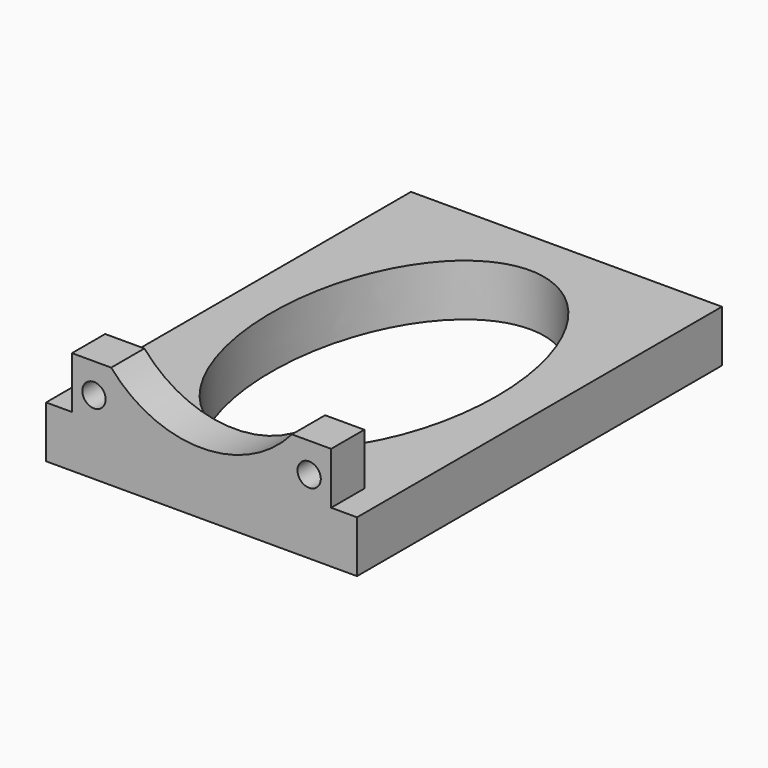
from build123d import *

# Parameters (mm, degrees)
F1_DEPTH = 88
F0_R     = 2.25
F2_DEPTH = 8
F4_DEPTH = 10.001


with BuildPart() as f1:
    # F0 (on Front) → F1 (new body)
    with BuildSketch(Plane.XZ):
        Polygon((-30, -5), (30, -5), (30, 5), (25, 5), (-25, 5), (-30, 5), align=None)
    extrude(amount=-F1_DEPTH)

    # F0 (on Front) → F2 (join)
    with BuildSketch(Plane.XZ):
        with BuildLine():
            Line((-25, 5), (25, 5))
            Line((25, 5), (25, 15))
            Line((25, 15), (17.435596, 15))
            ThreePointArc((17.435596, 15), (0, 7), (-17.435596, 15))
            Line((-17.435596, 15), (-25, 15))
            Line((-25, 15), (-25, 5))
        make_face()
        with Locations((-20.757359, 9.242641)):
            Circle(F0_R, mode=Mode.SUBTRACT)
        with Locations((20.757359, 9.242641)):
            Circle(F0_R, mode=Mode.SUBTRACT)
    extrude(amount=-F2_DEPTH)

    # F3 (on face) → F4 (cut, through all)
    with BuildSketch(Plane.XY.offset(5)):
        with BuildLine():
            add(Edge.make_bspline(
                [(21.761706, 44), (21.761706, 104.96374), (-10.880853, 74.48187), (-43.523412, 44), (-10.880853, 13.51813), (21.761706, -16.96374), (21.761706, 44)],
                knots=[4.712389, 4.712389, 4.712389, 6.806784, 6.806784, 8.901179, 8.901179, 10.995574, 10.995574, 10.995574], degree=2, weights=[1, 0.5, 1, 0.5, 1, 0.5, 1]))
        make_face()
    extrude(amount=-F4_DEPTH, mode=Mode.SUBTRACT)


solid = f1.part
